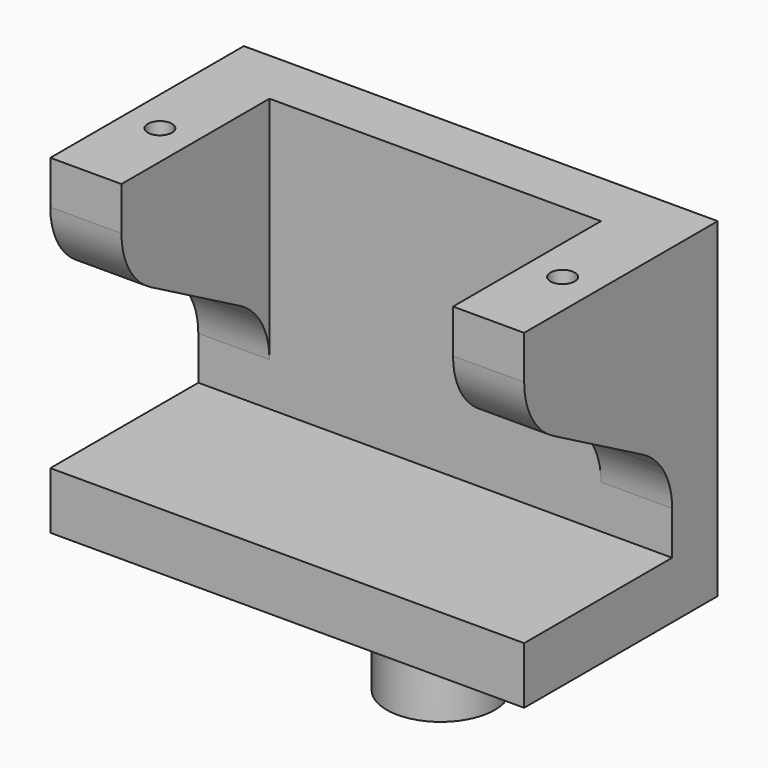
from build123d import *

# Parameters (mm, degrees)
F1_W     = 5
F1_H     = 7.2
F1_H_2   = 6
F1_H_3   = 4
F1_W_2   = 23.3
F3_DEPTH = 8.5
F4_DEPTH = 23.2
F5_DEPTH = 18.1
F6_START = 4.3
F0_R     = 0.85
F6_DEPTH = 20.7
F0_R_2   = 3.8
F7_DEPTH = 5


with BuildPart() as f3:
    # F1 (on Front) → F3 (new body, symmetric)
    with BuildSketch(Plane.XZ):
        with Locations((-14.15, 13.6)):
            Rectangle(F1_W, F1_H)
        with Locations((-14.15, 20.2)):
            Rectangle(F1_W, F1_H_2)
        with Locations((-14.15, 7)):
            Rectangle(F1_W, F1_H_2)
        with Locations((-14.15, 2)):
            Rectangle(F1_W, F1_H_3)
        with Locations((0, 2)):
            Rectangle(F1_W_2, F1_H_3)
        with Locations((14.15, 2)):
            Rectangle(F1_W, F1_H_3)
        with Locations((14.15, 7)):
            Rectangle(F1_W, F1_H_2)
        with Locations((14.15, 13.6)):
            Rectangle(F1_W, F1_H)
        with Locations((14.15, 20.2)):
            Rectangle(F1_W, F1_H_2)
    extrude(amount=F3_DEPTH, both=True)

    # F0 (on Top) → F4 (join)
    with BuildSketch(Plane.XY):
        Polygon((11.65, 4.5), (11.65, 8.5), (0, 8.5), (-11.65, 8.5), (-11.65, 4.5), align=None)
    extrude(amount=F4_DEPTH)

    # F2 (on Right) → F5 (cut, symmetric)
    with BuildSketch(Plane.YZ):
        with BuildLine():
            Line((-8.5, 17.2), (-8.5, 10))
            Line((-8.5, 10), (3.5396314061, 10))
            ThreePointArc((3.5396314061, 10), (2.8089650426, 10.8020152096), (1.9224991399, 11.4275389379))
            Line((1.9224991399, 11.4275389379), (-5.9224991399, 15.7724610621))
            ThreePointArc((-5.9224991399, 15.7724610621), (-6.8089650426, 16.3979847904), (-7.5396314061, 17.2))
            Line((-7.5396314061, 17.2), (-8.5, 17.2))
        make_face()
        with BuildLine():
            Line((-8.5, 20.1464178425), (-8.5, 17.2))
            Line((-8.5, 17.2), (-7.5396314061, 17.2))
            ThreePointArc((-7.5396314061, 17.2), (-8.2538488107, 18.5969271247), (-8.5, 20.1464178425))
        make_face()
        with BuildLine():
            Line((-8.5, 10), (-8.5, 4))
            Line((-8.5, 4), (4.5, 4))
            Line((4.5, 4), (4.5, 7.0535821575))
            ThreePointArc((4.5, 7.0535821575), (4.2538488107, 8.6030728753), (3.5396314061, 10))
            Line((3.5396314061, 10), (-8.5, 10))
        make_face()
    extrude(amount=F5_DEPTH, both=True, mode=Mode.SUBTRACT)

    # F0 (on Top) → F6 (cut)
    with BuildSketch(Plane.XY.offset(F6_START)):
        with Locations((14.15, -2)):
            Circle(F0_R)
        with Locations((-14.15, -2)):
            Circle(F0_R)
    extrude(amount=F6_DEPTH, mode=Mode.SUBTRACT)

    # F0 (on Top) → F7 (join)
    with BuildSketch(Plane.XY):
        with Locations((5.75, -2.2)):
            Circle(F0_R_2)
    extrude(amount=-F7_DEPTH)


solid = f3.part
